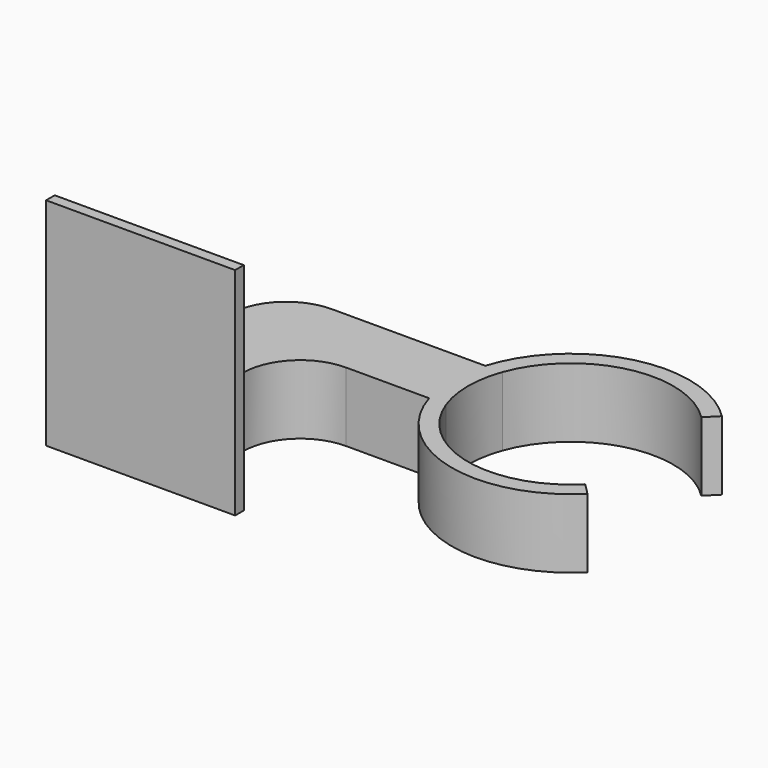
from build123d import *

# Parameters (mm, degrees)
F0_W     = 13
F0_H     = 25
F1_DEPTH = 12.8
F2_DEPTH = 40
F3_R     = 10.6225396744


with BuildPart() as f1:
    # F0 (on Top) → F1 (new body)
    with BuildSketch(Plane.XY):
        with BuildLine():
            ThreePointArc((-21.017849557, -6.5), (-22, 0), (-21.017849557, 6.5))
            Line((-21.017849557, 6.5), (-60, 6.5))
            Line((-60, 6.5), (-60, -6.5))
            Line((-60, -6.5), (-47, -6.5))
            Line((-47, -6.5), (-21.017849557, -6.5))
        make_face()
        with Locations((-53.5, -19)):
            Rectangle(F0_W, F0_H)
        with BuildLine():
            ThreePointArc((-17.8535710714, -6.5), (-19, 0), (-17.8535710714, 6.5))
            Line((-17.8535710714, 6.5), (-21.017849557, 6.5))
            ThreePointArc((-21.017849557, 6.5), (-22, 0), (-21.017849557, -6.5))
            Line((-21.017849557, -6.5), (-17.8535710714, -6.5))
        make_face()
        with BuildLine():
            Line((15.5563491861, -15.5563491861), (13.4350288425, -13.4350288425))
            ThreePointArc((13.4350288425, -13.4350288425), (-4.1115125099, -18.5498103732), (-17.8535710714, -6.5))
            Line((-17.8535710714, -6.5), (-21.017849557, -6.5))
            ThreePointArc((-21.017849557, -6.5), (-5.2878503875, -21.3550611865), (15.5563491861, -15.5563491861))
        make_face()
        with BuildLine():
            ThreePointArc((-17.8535710714, 6.5), (-4.1115125099, 18.5498103732), (13.4350288425, 13.4350288425))
            Line((13.4350288425, 13.4350288425), (15.5563491861, 15.5563491861))
            ThreePointArc((15.5563491861, 15.5563491861), (-5.2878503875, 21.3550611865), (-21.017849557, 6.5))
            Line((-21.017849557, 6.5), (-17.8535710714, 6.5))
        make_face()
    extrude(amount=F1_DEPTH)

    # F0 (on Top) → F2 (join)
    with BuildSketch(Plane.XY):
        Polygon((-35.3286863863, -31.5), (-47, -31.5), (-60, -31.5), (-70.3286863863, -31.5), (-70.3286863863, -33.5), (-35.3286863863, -33.5), align=None)
    extrude(amount=F2_DEPTH)

    # F3
    f3_edges = [f1.edges().sort_by_distance(p)[0] for p in [
        (-60, 6.5, 6.4),
        (-47, -6.5, 6.4),
    ]]
    fillet(f3_edges, radius=F3_R)


solid = f1.part
